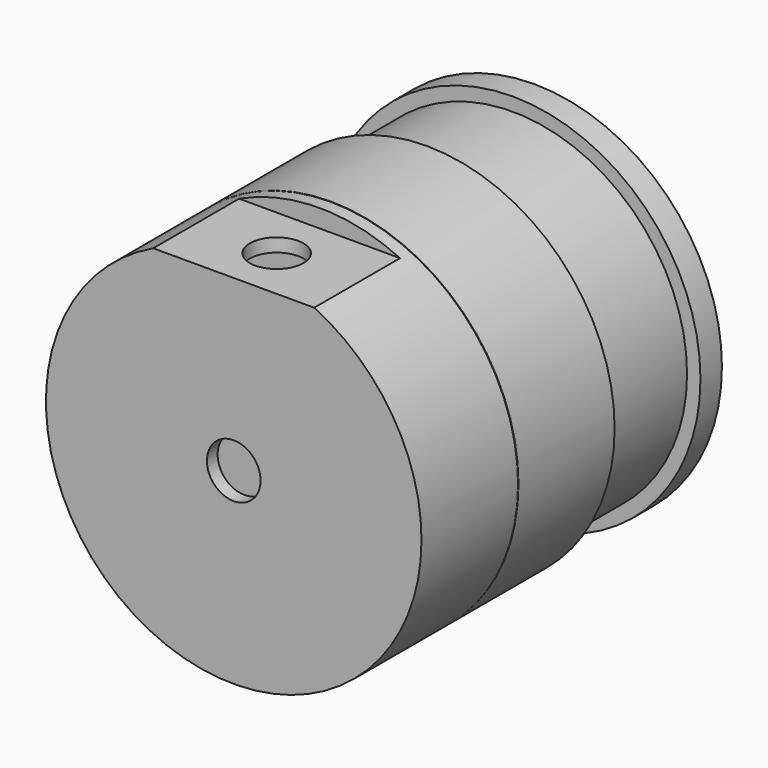
from build123d import *

# Parameters (mm, degrees)
F0_R      = 44.45
F1_DEPTH  = 88.9
F2_R      = 6.35
F3_DEPTH  = 25.4
F5_DEPTH  = 25.4
F6_R      = 6.35
F7_DEPTH  = 25.4
F10_DEPTH = 22.225
F12_R     = 44.45
F12_R_2   = 41.91
F13_DEPTH = 0.127
F15_R     = 48.4692120424
F15_R_2   = 41.275
F16_DEPTH = 25.4


with BuildPart() as f1:
    # F0 (on Front) → F1 (new body)
    with BuildSketch(Plane.XZ):
        Circle(F0_R)
    extrude(amount=F1_DEPTH)

    # F2 (on face) → F3 (cut)
    with BuildSketch(Plane.XZ.offset(88.9)):
        Circle(F2_R)
    extrude(amount=-F3_DEPTH, mode=Mode.SUBTRACT)

    # F4 (on face) → F5 (cut)
    with BuildSketch(Plane.XZ.offset(88.9)):
        with BuildLine():
            ThreePointArc((19.05, 40.1609262841), (0, 44.45), (-19.05, 40.1609262841))
            Line((-19.05, 40.1609262841), (19.05, 40.1609262841))
        make_face()
    extrude(amount=-F5_DEPTH, mode=Mode.SUBTRACT)

    # F6 (on face) → F7 (cut)
    with BuildSketch(Plane.XY.offset(40.1609262841)):
        with Locations((0, -76.2)):
            Circle(F6_R)
    extrude(amount=-F7_DEPTH, mode=Mode.SUBTRACT)

    # F9 (on offset) → F10 (cut)
    with BuildSketch(Plane.XZ.offset(85.725)):
        with BuildLine():
            Line((18.1031520743, 36.9859262841), (-18.1031520743, 36.9859262841))
            ThreePointArc((-18.1031520743, 36.9859262841), (0, -41.1786699411), (18.1031520743, 36.9859262841))
        make_face()
    extrude(amount=-F10_DEPTH, mode=Mode.SUBTRACT)

    # F12 (on offset) → F13 (cut)
    with BuildSketch(Plane.XZ.offset(60.325)):
        Circle(F12_R)
        Circle(F12_R_2, mode=Mode.SUBTRACT)
    extrude(amount=-F13_DEPTH, mode=Mode.SUBTRACT)

    # F15 (on offset) → F16 (cut)
    with BuildSketch(Plane.XZ.offset(6.35)):
        Circle(F15_R)
        Circle(F15_R_2, mode=Mode.SUBTRACT)
    extrude(amount=F16_DEPTH, mode=Mode.SUBTRACT)


solid = f1.part
